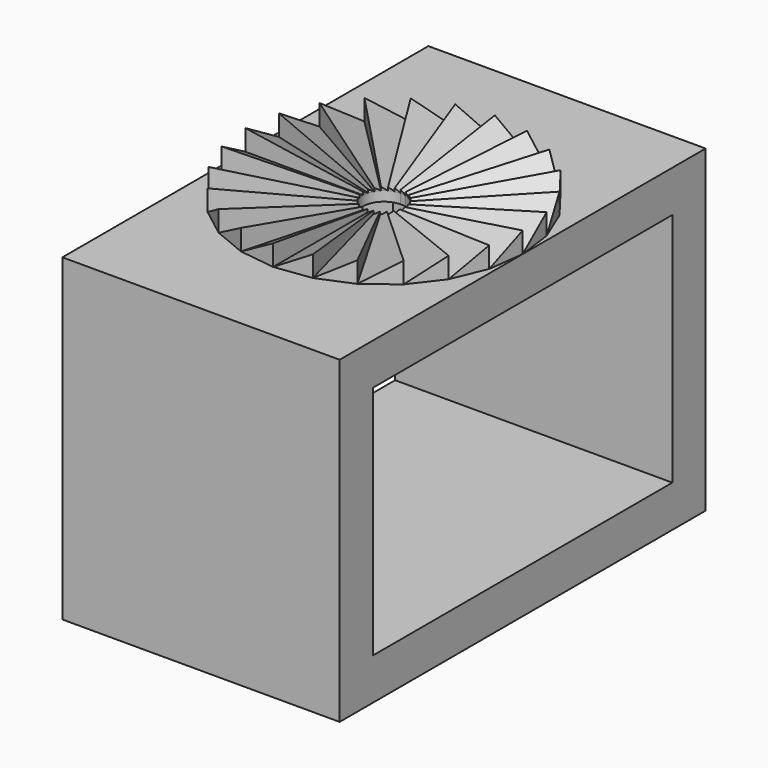
from build123d import *

# Parameters (mm, degrees)
F5_COUNT      = 24
F6_W          = 33
F6_H          = 23
F6_W_2        = 27
F6_H_2        = 17
F7_DEPTH      = 10
F7_DEPTH_BACK = 10
F8_DEPTH      = 3
F8_DEPTH_BACK = 5
F10_DEPTH     = 2.3


with BuildPart() as f3:
    # F2 (on line) → F3 section 0
    with BuildSketch(Plane(origin=(1.2938400436, 9.8296975, 0), x_dir=(-0.9914483093, 0.1305, 0), z_dir=(0.1305, 0.9914483093, 0)), mode=Mode.PRIVATE) as f3_s0:
        Polygon((-1.3041549828, 0), (1.3058450172, 0), (1.3058450172, 1.5), align=None)
    loft([f3_s0.sketch, Vertex(0, 0, 0)])

    # F5: F3 ×24 about axis
    f5_axis = Axis((0, 0, 1.9288011827), (0, 0, 1))


with BuildPart() as f3_1:
    add(f3.part)
    for i in range(1, F5_COUNT):
        add(f3.part.rotate(f5_axis, i * 360 / F5_COUNT))

    # F6 (on Right) → F7 (join, two sides)
    with BuildSketch(Plane.YZ) as f7_sk:
        with Locations((0, -11.5)):
            Rectangle(F6_W, F6_H)
        with Locations((0, -11.5)):
            Rectangle(F6_W_2, F6_H_2, mode=Mode.SUBTRACT)
    extrude(amount=F7_DEPTH)
    extrude(f7_sk.sketch, amount=-F7_DEPTH_BACK)

    # F0 (on Top) → F8 (cut, two sides)
    with BuildSketch(Plane.XY) as f8_sk:
        with BuildLine():
            ThreePointArc((1.5, 0), (1.1900058865, 0.9131735816), (0.3881520131, 1.44890925))
            Line((0.3881520131, 1.44890925), (0, 0))
            Line((0, 0), (0, 1.5))
            ThreePointArc((0, 1.5), (-1.0606601718, -1.0606601718), (1.5, 0))
        make_face()
        with BuildLine():
            Line((0, 0), (0.3881520131, 1.44890925))
            ThreePointArc((0.3881520131, 1.44890925), (0.19575, 1.4871724639), (0, 1.5))
            Line((0, 1.5), (0, 0))
        make_face()
    extrude(amount=-F8_DEPTH, mode=Mode.SUBTRACT)
    extrude(f8_sk.sketch, amount=F8_DEPTH_BACK, mode=Mode.SUBTRACT)

    # F9 (on face) → F10 (cut)
    with BuildSketch(Plane(origin=(0, 0, -3), x_dir=(1, 0, 0), z_dir=(0, 0, -1))):
        Polygon((-3.1751729007, -0.0401295912), (-1.5528332049, -2.769845189), (1.6223396958, -2.7297155978), (3.1751729007, 0.0401295912), (1.5528332049, 2.769845189), (-1.6223396958, 2.7297155978), align=None)
    extrude(amount=-F10_DEPTH, mode=Mode.SUBTRACT)


solid = f3_1.part
